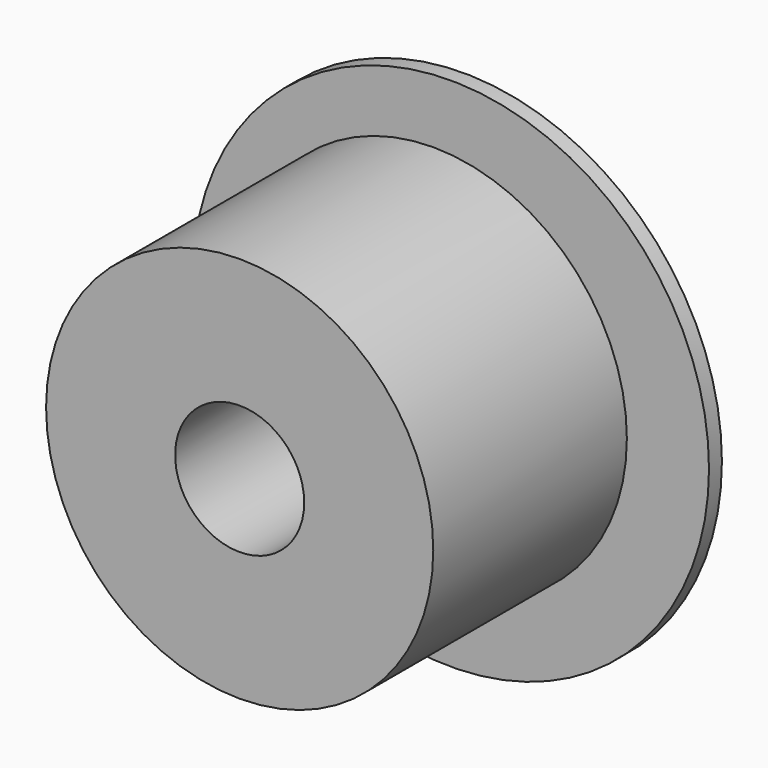
from build123d import *

# Parameters (mm, degrees)
F0_R     = 38.1
F1_DEPTH = 47.625
F2_R     = 50.8
F3_DEPTH = 3.175
F4_R     = 12.7
F5_DEPTH = 47.625
F6_DEPTH = 3.175


with BuildPart() as f1:
    # F0 (on Front) → F1 (new body)
    with BuildSketch(Plane.XZ):
        Circle(F0_R)
    extrude(amount=F1_DEPTH)

    # F2 (on Front) → F3 (join)
    with BuildSketch(Plane.XZ):
        with Locations((3.468244, 0)):
            Circle(F2_R)
    extrude(amount=-F3_DEPTH)

    # F4 (on Front) → F5 (cut, through all)
    with BuildSketch(Plane.XZ):
        Circle(F4_R)
    extrude(amount=F5_DEPTH, mode=Mode.SUBTRACT)

    # F4 (on Front) → F6 (cut, through all)
    with BuildSketch(Plane.XZ):
        Circle(F4_R)
    extrude(amount=-F6_DEPTH, mode=Mode.SUBTRACT)


solid = f1.part
